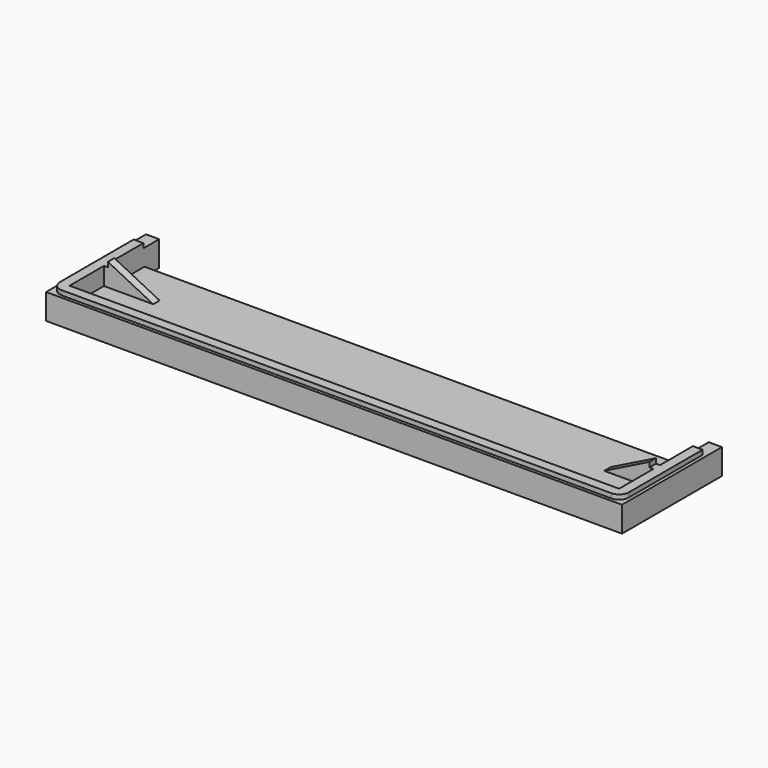
from build123d import *

# Parameters (mm, degrees)
F1_DEPTH = 2.15
F3_DEPTH = 3.1
F5_DEPTH = 0.8
F9_DEPTH = 1.4


with BuildPart() as f1:
    # F0 (on Top) → F1 (new body)
    with BuildSketch(Plane.XY):
        Polygon((-50.2594385356, -11.2599956296), (0, -11.2599956296), (0, 6.3900043704), (-47.2094385356, 6.3900043704), (-47.2094385356, 1.7900043704), (-47.9594385356, 1.7900043704), (-47.9594385356, 10.5400043704), (-50.2594385356, 10.5400043704), align=None)
        Polygon((0, 6.3900043704), (0, -11.2599956296), (50.2594385356, -11.2599956296), (50.2594385356, 10.5400043704), (47.9594385356, 10.5400043704), (47.9594385356, 1.7900043704), (47.2094385356, 1.7900043704), (47.2094385356, 6.3900043704), align=None)
    extrude(amount=F1_DEPTH)

    # F2 (on face) → F3 (join)
    with BuildSketch(Plane.XY.offset(2.15)):
        Polygon((-47.9594385356, -9.0099956296), (-47.9594385356, 1.7900043704), (-47.9594385356, 10.5400043704), (-50.2594385356, 10.5400043704), (-50.2594385356, -11.2599956296), (50.2594385356, -11.2599956296), (50.2594385356, 10.5400043704), (47.9594385356, 10.5400043704), (47.9594385356, 1.7900043704), (47.9594385356, -9.0099956296), (0, -9.0099956296), align=None)
    extrude(amount=F3_DEPTH)

    # F4 (on face) → F5 (cut)
    with BuildSketch(Plane.XY.offset(5.25)):
        with BuildLine():
            Line((-49.6594385356, -9.0099956296), (-49.6594385356, 7.0900043704))
            Line((-49.6594385356, 7.0900043704), (-47.9594385356, 7.0900043704))
            Line((-47.9594385356, 7.0900043704), (-47.9594385356, 10.5400043704))
            Line((-47.9594385356, 10.5400043704), (-50.2594385356, 10.5400043704))
            Line((-50.2594385356, 10.5400043704), (-50.2594385356, -11.2599956296))
            Line((-50.2594385356, -11.2599956296), (50.2594385356, -11.2599956296))
            Line((50.2594385356, -11.2599956296), (50.2594385356, 10.5400043704))
            Line((50.2594385356, 10.5400043704), (47.9594385356, 10.5400043704))
            Line((47.9594385356, 10.5400043704), (47.9594385356, 7.0900043704))
            Line((47.9594385356, 7.0900043704), (49.6594385356, 7.0900043704))
            Line((49.6594385356, 7.0900043704), (49.6594385356, -9.0099956296))
            ThreePointArc((49.6594385356, -9.0099956296), (49.1615200636, -10.2120771576), (47.9594385356, -10.7099956296))
            Line((47.9594385356, -10.7099956296), (0, -10.7099956296))
            Line((0, -10.7099956296), (-47.9594385356, -10.7099956296))
            ThreePointArc((-47.9594385356, -10.7099956296), (-49.1615200636, -10.2120771576), (-49.6594385356, -9.0099956296))
        make_face()
    extrude(amount=-F5_DEPTH, mode=Mode.SUBTRACT)

    # F8 (on plane+point) → F9 (join)
    with BuildSketch(Plane(origin=(0, -1.5099956296, 0), x_dir=(-1, 0, 0), z_dir=(0, 1, 0))):
        Polygon((47.2594385356, 6.1), (39.3594385356, 2.15), (47.9594385356, 2.15), (47.9594385356, 5.25), (47.2594385356, 5.25), align=None)
    extrude(amount=F9_DEPTH)

    # F10: F1 across plane


with BuildPart() as f1_1:
    add(f1.part)
    add(f1.part.mirror(Plane.YZ))


solid = f1_1.part
